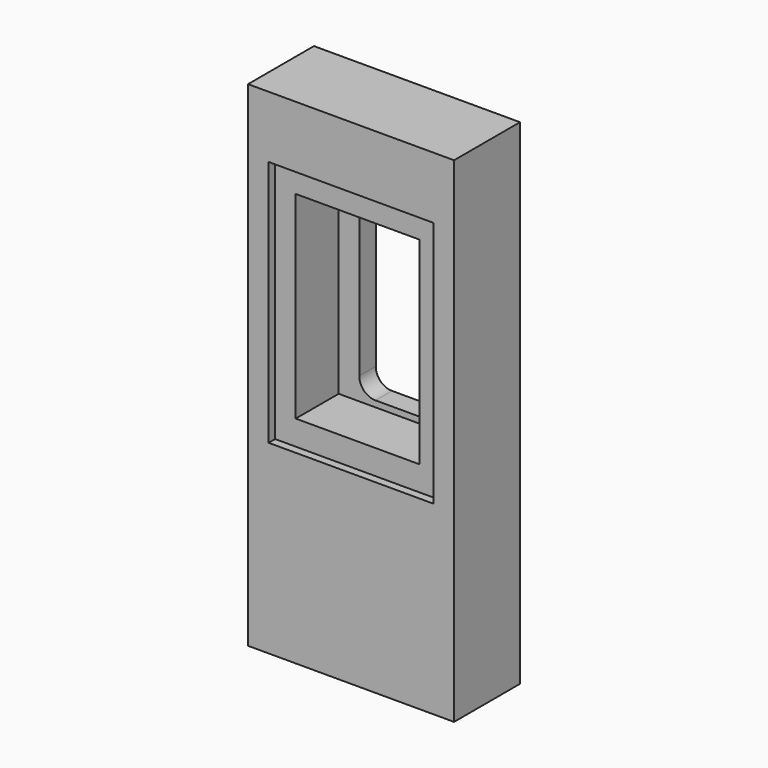
from build123d import *

# Parameters (mm, degrees)
F0_W     = 127
F0_H     = 304.8
F0_W_2   = 101.6
F0_H_2   = 152.4
F0_W_3   = 76.2
F0_H_3   = 121.92
F0_W_4   = 50.8
F0_H_4   = 114.3
F1_DEPTH = 50.8
F2_DEPTH = 5
F3_DEPTH = 38.1
F4_R     = 10


with BuildPart() as f1:
    # F0 (on Front) → F1 (new body)
    with BuildSketch(Plane.XZ):
        with Locations((0, -38.1)):
            Rectangle(F0_W, F0_H)
        Rectangle(F0_W_2, F0_H_2, mode=Mode.SUBTRACT)
        Rectangle(F0_W_2, F0_H_2)
        Rectangle(F0_W_3, F0_H_3, mode=Mode.SUBTRACT)
        Rectangle(F0_W_3, F0_H_3)
        Rectangle(F0_W_4, F0_H_4, mode=Mode.SUBTRACT)
    extrude(amount=-F1_DEPTH)

    # F0 (on Front) → F2 (cut)
    with BuildSketch(Plane.XZ):
        Rectangle(F0_W_2, F0_H_2)
        Rectangle(F0_W_3, F0_H_3, mode=Mode.SUBTRACT)
    extrude(amount=-F2_DEPTH, mode=Mode.SUBTRACT)

    # F0 (on Front) → F3 (cut)
    with BuildSketch(Plane.XZ):
        Rectangle(F0_W_3, F0_H_3)
        Rectangle(F0_W_4, F0_H_4, mode=Mode.SUBTRACT)
    extrude(amount=-F3_DEPTH, mode=Mode.SUBTRACT)

    # F4
    f4_edges = [f1.edges().sort_by_distance(p)[0] for p in [
        (-25.4, 44.45, 57.15),
        (25.4, 44.45, 57.15),
        (-25.4, 44.45, -57.15),
        (25.4, 44.45, -57.15),
    ]]
    fillet(f4_edges, radius=F4_R)


solid = f1.part
